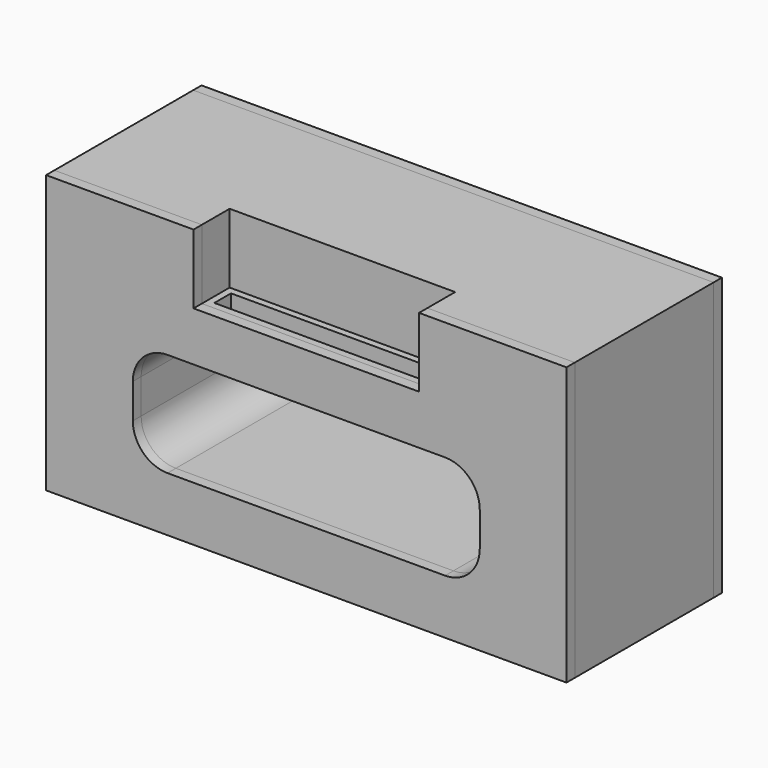
from build123d import *

# Parameters (mm, degrees)
F0_W      = 150
F0_H      = 50
F1_DEPTH  = 80
F2_W      = 65
F2_H      = 20
F3_DEPTH  = 10
F5_DEPTH  = 67.4
F6_W      = 61
F6_H      = 6
F7_DEPTH  = 25
F9_DEPTH  = 3
F10_W     = 150
F10_H     = 80
F11_DEPTH = 3


with BuildPart() as f1:
    # F0 (on Top) → F1 (new body)
    with BuildSketch(Plane.XY):
        Rectangle(F0_W, F0_H)
    extrude(amount=F1_DEPTH)

    # F2 (on face) → F3 (cut)
    with BuildSketch(Plane.XZ.offset(25)):
        with Locations((0, 70)):
            Rectangle(F2_W, F2_H)
    extrude(amount=-F3_DEPTH, mode=Mode.SUBTRACT)

    # F4 (on face) → F5 (cut)
    with BuildSketch(Plane.XZ.offset(25)):
        with BuildLine():
            Line((40, 45.7671124575), (-40, 45.7671124575))
            ThreePointArc((-40, 45.7671124575), (-47.0710678119, 42.8381802693), (-50, 35.7671124575))
            Line((-50, 35.7671124575), (-50, 25.7671124575))
            ThreePointArc((-50, 25.7671124575), (-47.0710678119, 18.6960446456), (-40, 15.7671124575))
            Line((-40, 15.7671124575), (40, 15.7671124575))
            ThreePointArc((40, 15.7671124575), (47.0710678119, 18.6960446456), (50, 25.7671124575))
            Line((50, 25.7671124575), (50, 35.7671124575))
            ThreePointArc((50, 35.7671124575), (47.0710678119, 42.8381802693), (40, 45.7671124575))
        make_face()
    extrude(amount=-F5_DEPTH, mode=Mode.SUBTRACT)

    # F6 (on face) → F7 (cut)
    with BuildSketch(Plane.XY.offset(60)):
        with Locations((0, -20)):
            Rectangle(F6_W, F6_H)
    extrude(amount=-F7_DEPTH, mode=Mode.SUBTRACT)


with BuildPart() as f9:
    # F8 (on face) → F9 (new body)
    with BuildSketch(Plane.XZ.offset(25)):
        Polygon((-32.5, 80), (-75, 80), (-75, 0), (75, 0), (75, 80), (32.5, 80), (32.5, 60), (-32.5, 60), align=None)
        with BuildLine():
            ThreePointArc((-50, 35.7671124575), (-47.0710678119, 42.8381802693), (-40, 45.7671124575))
            Line((-40, 45.7671124575), (40, 45.7671124575))
            ThreePointArc((40, 45.7671124575), (47.0710678119, 42.8381802693), (50, 35.7671124575))
            Line((50, 35.7671124575), (50, 25.7671124575))
            ThreePointArc((50, 25.7671124575), (47.0710678119, 18.6960446456), (40, 15.7671124575))
            Line((40, 15.7671124575), (-40, 15.7671124575))
            ThreePointArc((-40, 15.7671124575), (-47.0710678119, 18.6960446456), (-50, 25.7671124575))
            Line((-50, 25.7671124575), (-50, 35.7671124575))
        make_face(mode=Mode.SUBTRACT)
    extrude(amount=F9_DEPTH)


with BuildPart() as f11:
    # F10 (on face) → F11 (new body)
    with BuildSketch(Plane(origin=(0, 25, 0), x_dir=(-1, 0, 0), z_dir=(0, 1, 0))):
        with Locations((0, 40)):
            Rectangle(F10_W, F10_H)
    extrude(amount=F11_DEPTH)


solid = Compound([f1.part, f9.part, f11.part])
